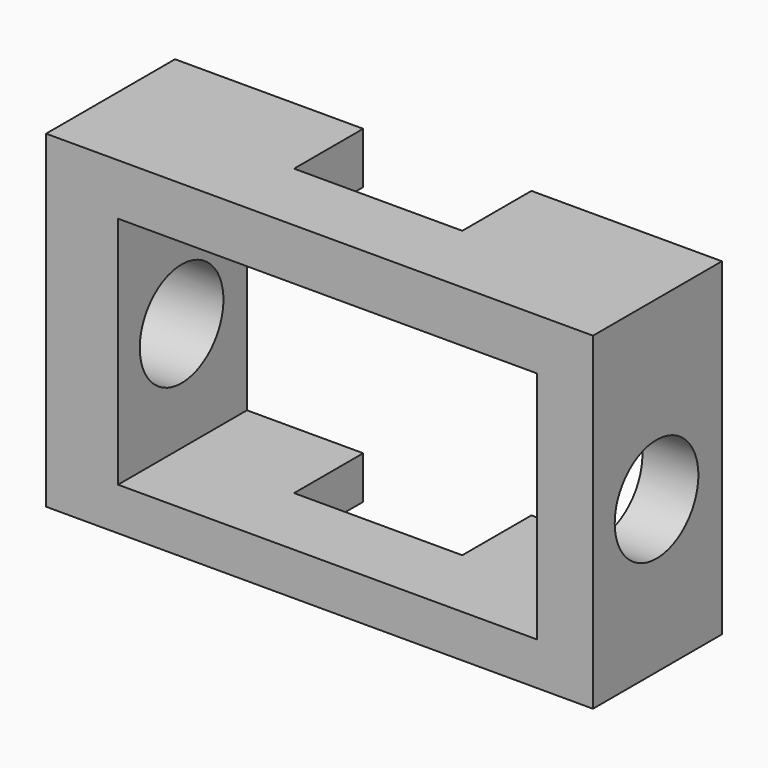
from build123d import *

# Parameters (mm, degrees)
F0_W     = 66.0323537886
F0_H     = 6.7478315905
F1_DEPTH = 25.4
F2_DEPTH = 25.4
F3_W     = 26.5093389899
F3_H     = 13.6161595583
F4_DEPTH = 76.454
F5_R     = 8.2379774364
F6_DEPTH = 155.194


with BuildPart() as f1:
    # F0 (on Front) → F1 (new body)
    with BuildSketch(Plane.XZ):
        Polygon((-40.1414297521, 27.1496288478), (-28.7987813354, 27.1496288478), (37.2335724533, 27.1496288478), (37.2335724533, 35.2556668222), (-40.1414297521, 35.2556668222), align=None)
        with Locations((4.217395559, -13.1341717206)):
            Rectangle(F0_W, F0_H)
        Polygon((-40.1414297521, -16.5080875158), (-28.7987813354, -16.5080875158), (-28.7987813354, -9.7602559254), (-28.7987813354, 27.1496288478), (-40.1414297521, 27.1496288478), align=None)
        Polygon((37.2335724533, -9.7602559254), (37.2335724533, -16.5080875158), (46.05165869, -16.5080875158), (46.05165869, 35.2556668222), (37.2335724533, 35.2556668222), (37.2335724533, 27.1496288478), align=None)
    extrude(amount=F1_DEPTH)

    # F0 (on Front) → F2 (join)
    with BuildSketch(Plane.XZ):
        Polygon((-40.1414297521, 27.1496288478), (-28.7987813354, 27.1496288478), (37.2335724533, 27.1496288478), (37.2335724533, 35.2556668222), (-40.1414297521, 35.2556668222), align=None)
        with Locations((4.217395559, -13.1341717206)):
            Rectangle(F0_W, F0_H)
        Polygon((-40.1414297521, -16.5080875158), (-28.7987813354, -16.5080875158), (-28.7987813354, -9.7602559254), (-28.7987813354, 27.1496288478), (-40.1414297521, 27.1496288478), align=None)
        Polygon((37.2335724533, -9.7602559254), (37.2335724533, -16.5080875158), (46.05165869, -16.5080875158), (46.05165869, 35.2556668222), (37.2335724533, 35.2556668222), (37.2335724533, 27.1496288478), align=None)
    extrude(amount=F2_DEPTH)

    # F3 (on face) → F4 (cut)
    with BuildSketch(Plane.XY.offset(35.2556668222)):
        with Locations((2.7714306489, -6.8080797791)):
            Rectangle(F3_W, F3_H)
    extrude(amount=-F4_DEPTH, mode=Mode.SUBTRACT)

    # F5 (on face) → F6 (cut)
    with BuildSketch(Plane(origin=(-40.1414297521, 0, 0), x_dir=(0, -1, 0), z_dir=(-1, 0, 0))):
        with Locations((12.8824114799, 7.4787386693)):
            Circle(F5_R)
    extrude(amount=-F6_DEPTH, mode=Mode.SUBTRACT)


solid = f1.part
